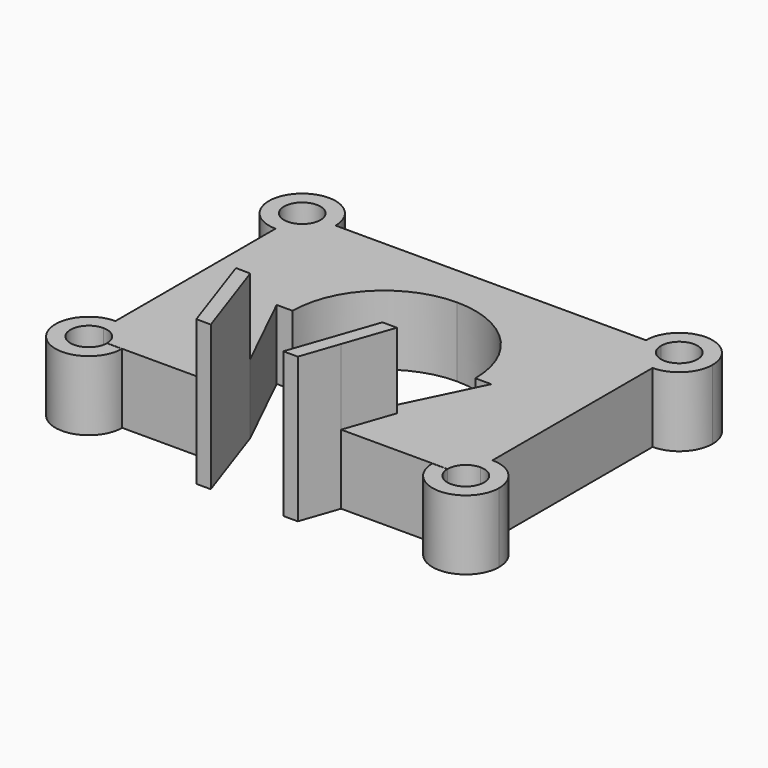
from build123d import *

# Parameters (mm, degrees)
F1_DEPTH = 12
F2_DEPTH = 25


with BuildPart() as f1:
    # F0 (on Top) → F1 (new body)
    with BuildSketch(Plane.XY):
        with BuildLine():
            Line((-23.3174114416, 38.1848648238), (-50.0674114416, 38.1848648238))
            ThreePointArc((-50.0674114416, 38.1848648238), (-51.7515474498, 34.119000832), (-55.8174114416, 32.4348648238))
            Line((-55.8174114416, 32.4348648238), (-55.8174114416, 15.1848648238))
            Line((-55.8174114416, 15.1848648238), (-41.8174114416, 15.1659585536))
            ThreePointArc((-41.8174114416, 15.1659585536), (-36.3988868935, 28.2474340055), (-23.3174114416, 33.6659585536))
            Line((-23.3174114416, 33.6659585536), (-23.3174114416, 38.1848648238))
        make_face()
        with BuildLine():
            Line((-50.0674114416, 38.1848648238), (-52.6674114416, 38.1848648238))
            ThreePointArc((-52.6674114416, 38.1848648238), (-53.5900250808, 35.9574784631), (-55.8174114416, 35.0348648238))
            Line((-55.8174114416, 35.0348648238), (-55.8174114416, 32.4348648238))
            ThreePointArc((-55.8174114416, 32.4348648238), (-51.7515474498, 34.119000832), (-50.0674114416, 38.1848648238))
        make_face()
        with BuildLine():
            ThreePointArc((-55.8174114416, 35.0348648238), (-58.0447978023, 40.4122511846), (-52.6674114416, 38.1848648238))
            Line((-52.6674114416, 38.1848648238), (-50.0674114416, 38.1848648238))
            ThreePointArc((-50.0674114416, 38.1848648238), (-59.8832754334, 42.2507288157), (-55.8174114416, 32.4348648238))
            Line((-55.8174114416, 32.4348648238), (-55.8174114416, 35.0348648238))
        make_face()
        with BuildLine():
            Line((3.4325885584, 38.1848648238), (-23.3174114416, 38.1848648238))
            Line((-23.3174114416, 38.1848648238), (-23.3174114416, 33.6659585536))
            ThreePointArc((-23.3174114416, 33.6659585536), (-10.2359359896, 28.2474340055), (-4.8174114416, 15.1659585536))
            Line((-4.8174114416, 15.1659585536), (9.1825885584, 15.1659585536))
            Line((9.1825885584, 15.1659585536), (9.1825885584, 32.4348648238))
            ThreePointArc((9.1825885584, 32.4348648238), (5.1167245666, 34.119000832), (3.4325885584, 38.1848648238))
        make_face()
        with BuildLine():
            ThreePointArc((-4.8174114416, 15.1659585536), (-10.2359359896, 28.2474340055), (-23.3174114416, 33.6659585536))
            Line((-23.3174114416, 33.6659585536), (-23.3174114416, 30.9159585536))
            ThreePointArc((-23.3174114416, 30.9159585536), (-12.1804796379, 26.3028903572), (-7.5674114416, 15.1659585536))
            Line((-7.5674114416, 15.1659585536), (-4.8174114416, 15.1659585536))
        make_face()
        with BuildLine():
            Line((-23.3174114416, 30.9159585536), (-23.3174114416, 33.6659585536))
            ThreePointArc((-23.3174114416, 33.6659585536), (-36.3988868935, 28.2474340055), (-41.8174114416, 15.1659585536))
            Line((-41.8174114416, 15.1659585536), (-39.0674114416, 15.1659585536))
            ThreePointArc((-39.0674114416, 15.1659585536), (-34.4543432453, 26.3028903572), (-23.3174114416, 30.9159585536))
        make_face()
        with BuildLine():
            ThreePointArc((14.9325885584, 38.1848648238), (9.1825885584, 43.9348648238), (3.4325885584, 38.1848648238))
            Line((3.4325885584, 38.1848648238), (6.0325885584, 38.1848648238))
            ThreePointArc((6.0325885584, 38.1848648238), (9.1825885584, 41.3348648238), (12.3325885584, 38.1848648238))
            ThreePointArc((12.3325885584, 38.1848648238), (11.4099749192, 35.9574784631), (9.1825885584, 35.0348648238))
            Line((9.1825885584, 35.0348648238), (9.1825885584, 32.4348648238))
            ThreePointArc((9.1825885584, 32.4348648238), (13.2484525502, 34.119000832), (14.9325885584, 38.1848648238))
        make_face()
        with BuildLine():
            Line((6.0325885584, 38.1848648238), (3.4325885584, 38.1848648238))
            ThreePointArc((3.4325885584, 38.1848648238), (5.1167245666, 34.119000832), (9.1825885584, 32.4348648238))
            Line((9.1825885584, 32.4348648238), (9.1825885584, 35.0348648238))
            ThreePointArc((9.1825885584, 35.0348648238), (6.9552021977, 35.9574784631), (6.0325885584, 38.1848648238))
        make_face()
        with BuildLine():
            ThreePointArc((14.9325885584, -7.8151351762), (13.2484525502, -3.7492711843), (9.1825885584, -2.0651351762))
            Line((9.1825885584, -2.0651351762), (9.1825885584, -4.6651351762))
            ThreePointArc((9.1825885584, -4.6651351762), (11.4099749192, -5.5877488154), (12.3325885584, -7.8151351762))
            ThreePointArc((12.3325885584, -7.8151351762), (9.2014951693, -10.965078436), (6.0328155171, -7.8529477167))
            Line((6.0328155171, -7.8529477167), (3.4327128892, -7.8529477167))
            ThreePointArc((3.4327128892, -7.8529477167), (9.2014949309, -13.5651040934), (14.9325885584, -7.8151351762))
        make_face()
        with BuildLine():
            Line((9.1825885584, -4.6651351762), (9.1825885584, -2.0651351762))
            ThreePointArc((9.1825885584, -2.0651351762), (5.1167245666, -3.7492711843), (3.4325885584, -7.8151351762))
            Line((3.4325885584, -7.8151351762), (6.0325885584, -7.8151351762))
            ThreePointArc((6.0325885584, -7.8151351762), (6.9552021977, -5.5877488154), (9.1825885584, -4.6651351762))
        make_face()
        Polygon((-9.4222861933, 0.5919707473), (-11.9222861933, 0.5919707473), (-17.0674114416, -14.3371266833), (-14.5674114416, -14.3371266833), (-12.3327208938, -7.8529477167), (-12.3196892783, -7.8151351762), align=None)
        with BuildLine():
            Line((9.1825885584, 15.1659585536), (-4.8174114416, 15.1659585536))
            Line((-4.8174114416, 15.1659585536), (-11.9222861933, 0.5919707473))
            Line((-11.9222861933, 0.5919707473), (-9.4222861933, 0.5919707473))
            Line((-9.4222861933, 0.5919707473), (-12.3196892783, -7.8151351762))
            Line((-12.3196892783, -7.8151351762), (3.4325885584, -7.8151351762))
            ThreePointArc((3.4325885584, -7.8151351762), (5.1167245666, -3.7492711843), (9.1825885584, -2.0651351762))
            Line((9.1825885584, -2.0651351762), (9.1825885584, 15.1659585536))
        make_face()
        with BuildLine():
            Line((-41.8174114416, 15.1659585536), (-55.8174114416, 15.1848648238))
            Line((-55.8174114416, 15.1848648238), (-55.8174114416, -2.0651351762))
            ThreePointArc((-55.8174114416, -2.0651351762), (-51.7515474498, -3.7492711843), (-50.0674114416, -7.8151351762))
            Line((-50.0674114416, -7.8151351762), (-34.3072243265, -7.8151351762))
            Line((-34.3072243265, -7.8151351762), (-37.2120125177, 0.643162408))
            Line((-37.2120125177, 0.643162408), (-34.7125366899, 0.5919707473))
            Line((-34.7125366899, 0.5919707473), (-41.8174114416, 15.1659585536))
        make_face()
        with BuildLine():
            ThreePointArc((-50.0674114416, -7.8151351762), (-51.7515474498, -3.7492711843), (-55.8174114416, -2.0651351762))
            Line((-55.8174114416, -2.0651351762), (-55.8174114416, -4.6651351762))
            ThreePointArc((-55.8174114416, -4.6651351762), (-53.5900250808, -5.5877488154), (-52.6674114416, -7.8151351762))
            Line((-52.6674114416, -7.8151351762), (-50.0674114416, -7.8151351762))
        make_face()
        with BuildLine():
            Line((-55.8174114416, -4.6651351762), (-55.8174114416, -2.0651351762))
            ThreePointArc((-55.8174114416, -2.0651351762), (-59.8966222787, -11.867608365), (-50.0675357723, -7.8529477167))
            Line((-50.0675357723, -7.8529477167), (-52.6676384003, -7.8529477167))
            ThreePointArc((-52.6676384003, -7.8529477167), (-58.0581266737, -10.0291124228), (-55.8174114416, -4.6651351762))
        make_face()
        Polygon((-29.5674114416, -14.3371266833), (-34.7125366899, 0.5919707473), (-37.2120125177, 0.643162408), (-34.3072243265, -7.8151351762), (-34.2942385666, -7.8529477167), (-32.0674114416, -14.3371266833), align=None)
    extrude(amount=F1_DEPTH)

    # F0 (on Top) → F2 (join)
    with BuildSketch(Plane.XY):
        Polygon((-29.5674114416, -14.3371266833), (-34.7125366899, 0.5919707473), (-37.2120125177, 0.643162408), (-34.3072243265, -7.8151351762), (-34.2942385666, -7.8529477167), (-32.0674114416, -14.3371266833), align=None)
        Polygon((-9.4222861933, 0.5919707473), (-11.9222861933, 0.5919707473), (-17.0674114416, -14.3371266833), (-14.5674114416, -14.3371266833), (-12.3327208938, -7.8529477167), (-12.3196892783, -7.8151351762), align=None)
    extrude(amount=F2_DEPTH)


solid = f1.part
